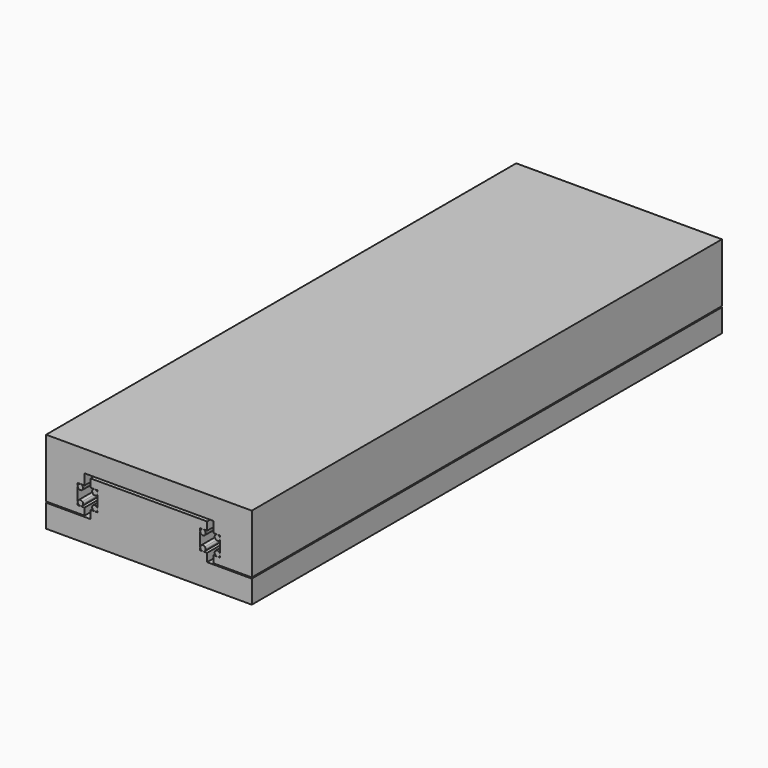
from build123d import *

# Parameters (mm, degrees)
F1_DEPTH = 254
F2_DEPTH = 254
F3_DEPTH = 254
F4_DEPTH = 254


with BuildPart() as f1:
    # F0 (on Front) → F1 (new body)
    with BuildSketch(Plane.XZ):
        Polygon((-44.45, -12.7), (44.45, -12.7), (44.45, -2.794), (25.146, -2.794), (25.146, 0.7366), (23.3553, 0.7366), (22.1742, 0.7366), (22.1742, 1.9177), (22.1742, 7.9883), (22.1742, 9.1694), (23.3553, 9.1694), (25.146, 9.1694), (25.146, 12.7), (-25.146, 12.7), (-25.146, 9.1694), (-23.3553, 9.1694), (-22.1742, 9.1694), (-22.1742, 7.9883), (-22.1742, 1.9177), (-22.1742, 0.7366), (-23.3553, 0.7366), (-25.146, 0.7366), (-25.146, -2.794), (-44.45, -2.794), align=None)
    extrude(amount=F1_DEPTH)


with BuildPart() as f2:
    # F0 (on Front) → F2 (new body)
    with BuildSketch(Plane.XZ):
        Polygon((-30.7848, 0.7366), (-30.7848, 1.9177), (-30.7848, 7.9883), (-30.7848, 9.1694), (-29.6037, 9.1694), (-27.813, 9.1694), (-27.813, 13.7922), (27.813, 13.7922), (27.813, 9.1694), (29.6037, 9.1694), (30.7848, 9.1694), (30.7848, 7.9883), (30.7848, 1.9177), (30.7848, 0.7366), (29.6037, 0.7366), (27.813, 0.7366), (27.813, -2.3114), (44.45, -2.3114), (44.45, 23.0886), (-44.45, 23.0886), (-44.45, -2.3114), (-27.813, -2.3114), (-27.813, 0.7366), (-29.6037, 0.7366), align=None)
    extrude(amount=F2_DEPTH)


with BuildPart() as f3:
    # F0 (on Front) → F3 (new body)
    with BuildSketch(Plane.XZ):
        with BuildLine():
            ThreePointArc((-30.7848, 7.9883), (-30.047802, 6.893873), (-28.756571, 7.165276))
            ThreePointArc((-28.756571, 7.165276), (-28.509273, 7.544198), (-28.4226, 7.9883))
            ThreePointArc((-28.4226, 7.9883), (-28.768536, 8.823464), (-29.6037, 9.1694))
            ThreePointArc((-29.6037, 9.1694), (-30.438864, 8.823464), (-30.7848, 7.9883))
        make_face()
        with BuildLine():
            ThreePointArc((-28.4226, 1.9177), (-28.509273, 2.361802), (-28.75657, 2.740724))
            ThreePointArc((-28.75657, 2.740724), (-30.047802, 3.012127), (-30.7848, 1.9177))
            ThreePointArc((-30.7848, 1.9177), (-30.438864, 1.082536), (-29.6037, 0.7366))
            ThreePointArc((-29.6037, 0.7366), (-28.768536, 1.082536), (-28.4226, 1.9177))
        make_face()
        with BuildLine():
            ThreePointArc((-24.202429, 7.165276), (-22.911198, 6.893873), (-22.1742, 7.9883))
            ThreePointArc((-22.1742, 7.9883), (-22.520136, 8.823464), (-23.3553, 9.1694))
            ThreePointArc((-23.3553, 9.1694), (-24.443204, 8.44815), (-24.202429, 7.165276))
        make_face()
        with BuildLine():
            ThreePointArc((-24.202429, 2.740724), (-24.443204, 1.45785), (-23.3553, 0.7366))
            ThreePointArc((-23.3553, 0.7366), (-22.520136, 1.082536), (-22.1742, 1.9177))
            ThreePointArc((-22.1742, 1.9177), (-22.911198, 3.012127), (-24.202429, 2.740724))
        make_face()
    extrude(amount=F3_DEPTH)


with BuildPart() as f4:
    # F0 (on Front) → F4 (new body)
    with BuildSketch(Plane.XZ):
        with BuildLine():
            ThreePointArc((23.3553, 9.1694), (22.520136, 8.823464), (22.1742, 7.9883))
            ThreePointArc((22.1742, 7.9883), (22.911198, 6.893873), (24.20243, 7.165276))
            ThreePointArc((24.20243, 7.165276), (24.449727, 7.544198), (24.5364, 7.9883))
            ThreePointArc((24.5364, 7.9883), (24.190464, 8.823464), (23.3553, 9.1694))
        make_face()
        with BuildLine():
            ThreePointArc((29.6037, 9.1694), (28.515796, 8.44815), (28.75657, 7.165276))
            ThreePointArc((28.75657, 7.165276), (30.047802, 6.893873), (30.7848, 7.9883))
            ThreePointArc((30.7848, 7.9883), (30.438864, 8.823464), (29.6037, 9.1694))
        make_face()
        with BuildLine():
            ThreePointArc((30.7848, 1.9177), (30.047802, 3.012127), (28.756571, 2.740724))
            ThreePointArc((28.756571, 2.740724), (28.515796, 1.45785), (29.6037, 0.7366))
            ThreePointArc((29.6037, 0.7366), (30.438864, 1.082536), (30.7848, 1.9177))
        make_face()
        with BuildLine():
            ThreePointArc((22.1742, 1.9177), (22.520136, 1.082536), (23.3553, 0.7366))
            ThreePointArc((23.3553, 0.7366), (24.190464, 1.082536), (24.5364, 1.9177))
            ThreePointArc((24.5364, 1.9177), (24.449727, 2.361802), (24.202429, 2.740724))
            ThreePointArc((24.202429, 2.740724), (22.911198, 3.012127), (22.1742, 1.9177))
        make_face()
    extrude(amount=F4_DEPTH)


solid = Compound([f1.part, f2.part, f3.part, f4.part])
